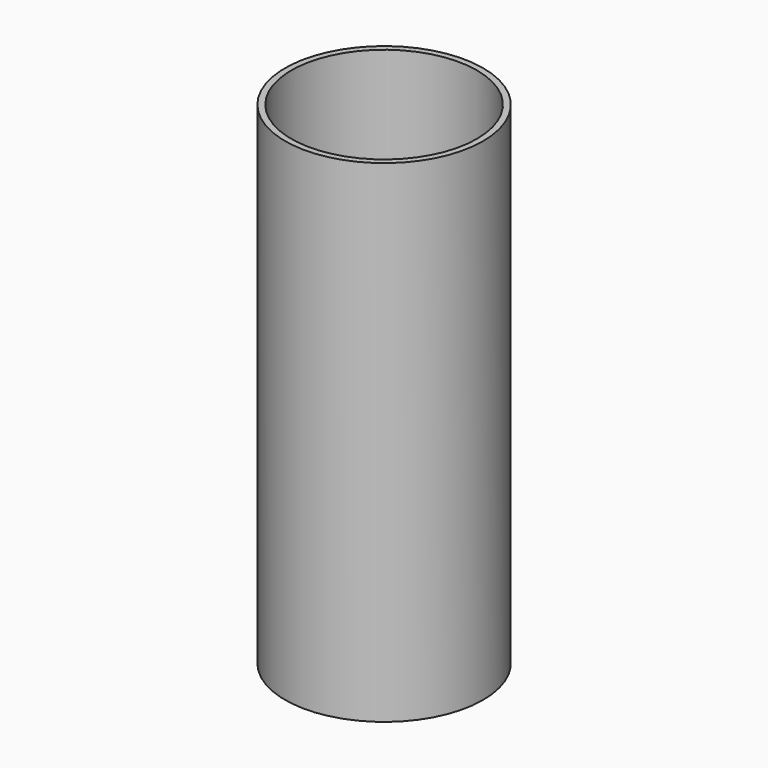
from build123d import *

# Parameters (mm, degrees)
SKETCH_R     = 51.1048
PAD_DEPTH    = 254
SKETCH001_R  = 47.9171
POCKET_DEPTH = 254.001


with BuildPart() as part:
    # Sketch → Pad (new body)
    with BuildSketch(Plane.XY):
        Circle(SKETCH_R)
    extrude(amount=PAD_DEPTH)

    # Sketch001 (on Face3 of Pad) → Pocket (cut, through all)
    with BuildSketch(Plane.XY.offset(254)):
        Circle(SKETCH001_R)
    extrude(amount=-POCKET_DEPTH, mode=Mode.SUBTRACT)


solid = part.part
